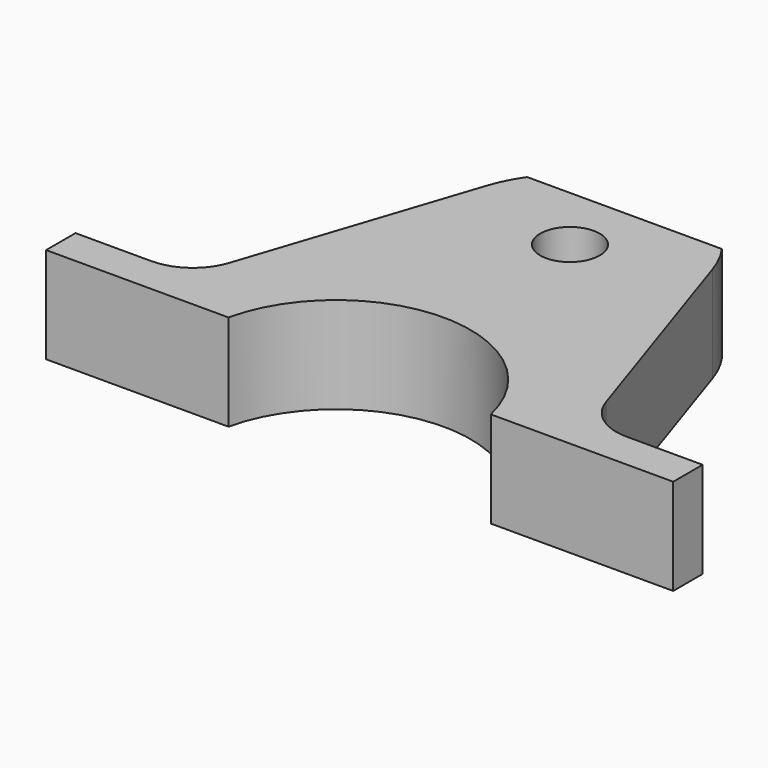
from build123d import *

# Parameters (mm, degrees)
F0_R      = 11.6
F1_DEPTH  = 25.4
F2_R      = 11.6
F2_R_2    = 5.75
F3_DEPTH  = 16
F4_R      = 2.6054950693
F5_DEPTH  = 25
F6_DEPTH  = 13
F7_DEPTH  = 13
F8_DEPTH  = 25
F10_START = -13.2
F9_W      = 101.4740765095
F9_H      = 163.1420962512
F10_DEPTH = 15.6
F11_DEPTH = 19.8


with BuildPart() as f1:
    # F0 (on Top) → F1 (new body)
    with BuildSketch(Plane.XY):
        with BuildLine():
            Line((36.4474654198, -36.875538528), (21.8328172584, 7.2338157676))
            ThreePointArc((21.8328172584, 7.2338157676), (0, 23), (-21.8328172584, 7.2338157676))
            Line((-21.8328172584, 7.2338157676), (-36.4474654198, -36.875538528))
            ThreePointArc((-36.4474654198, -36.875538528), (-40.0855678291, -41.8375392315), (-45.9399946626, -43.7304012377))
            Line((-45.9399946626, -43.7304012377), (-60.6462528196, -43.7304012377))
            Line((-60.6462528196, -43.7304012377), (-60.6462528196, -50.8411786739))
            Line((-60.6462528196, -50.8411786739), (-25.3686927199, -50.8411786739))
            ThreePointArc((-25.3686927199, -50.8411786739), (0, -30.5358630094), (25.3686927199, -50.8411786739))
            Line((25.3686927199, -50.8411786739), (60.6462528196, -50.8411786739))
            Line((60.6462528196, -50.8411786739), (60.6462528196, -43.7304012377))
            Line((60.6462528196, -43.7304012377), (45.9399946626, -43.7304012377))
            ThreePointArc((45.9399946626, -43.7304012377), (40.0855678291, -41.8375392315), (36.4474654198, -36.875538528))
        make_face()
        Circle(F0_R, mode=Mode.SUBTRACT)
    extrude(amount=F1_DEPTH)

    # F2 (on face) → F3 (join)
    with BuildSketch(Plane.XY.offset(25.4)):
        Circle(F2_R)
        Circle(F2_R_2, mode=Mode.SUBTRACT)
    extrude(amount=-F3_DEPTH)

    # F4 (on face) → F5 (cut)
    with BuildSketch(Plane(origin=(0, -43.7304012377, 0), x_dir=(-1, 0, 0), z_dir=(0, 1, 0))):
        with Locations((-53.2931237411, 12.7)):
            Circle(F4_R)
        with Locations((53.2931237411, 12.7)):
            Circle(F4_R)
    extrude(amount=-F5_DEPTH, mode=Mode.SUBTRACT)

    # F2 (on face) → F6 (join)
    with BuildSketch(Plane.XY.offset(25.4)):
        with BuildLine():
            Line((-60.6462528196, -50.8411786739), (-25.3686927199, -50.8411786739))
            ThreePointArc((-25.3686927199, -50.8411786739), (0, -30.5358630094), (25.3686927199, -50.8411786739))
            Line((25.3686927199, -50.8411786739), (60.6462528196, -50.8411786739))
            Line((60.6462528196, -50.8411786739), (60.6462528196, -43.7304012377))
            Line((60.6462528196, -43.7304012377), (45.9399946626, -43.7304012377))
            ThreePointArc((45.9399946626, -43.7304012377), (40.0855678291, -41.8375392315), (36.4474654198, -36.875538528))
            Line((36.4474654198, -36.875538528), (21.8328172584, 7.2338157676))
            ThreePointArc((21.8328172584, 7.2338157676), (0, 23), (-21.8328172584, 7.2338157676))
            Line((-21.8328172584, 7.2338157676), (-36.4474654198, -36.875538528))
            ThreePointArc((-36.4474654198, -36.875538528), (-40.0855678291, -41.8375392315), (-45.9399946626, -43.7304012377))
            Line((-45.9399946626, -43.7304012377), (-60.6462528196, -43.7304012377))
            Line((-60.6462528196, -43.7304012377), (-60.6462528196, -50.8411786739))
        make_face()
        Circle(F2_R, mode=Mode.SUBTRACT)
    extrude(amount=F6_DEPTH)

    # F2 (on face) → F7 (join, through all)
    with BuildSketch(Plane.XY.offset(25.4)):
        Circle(F2_R)
        Circle(F2_R_2, mode=Mode.SUBTRACT)
    extrude(amount=F7_DEPTH)

    # F0 (on Top) → F8 (join)
    with BuildSketch(Plane.XY):
        with BuildLine():
            Line((36.4474654198, -36.875538528), (21.8328172584, 7.2338157676))
            ThreePointArc((21.8328172584, 7.2338157676), (0, 23), (-21.8328172584, 7.2338157676))
            Line((-21.8328172584, 7.2338157676), (-36.4474654198, -36.875538528))
            ThreePointArc((-36.4474654198, -36.875538528), (-40.0855678291, -41.8375392315), (-45.9399946626, -43.7304012377))
            Line((-45.9399946626, -43.7304012377), (-60.6462528196, -43.7304012377))
            Line((-60.6462528196, -43.7304012377), (-60.6462528196, -50.8411786739))
            Line((-60.6462528196, -50.8411786739), (-25.3686927199, -50.8411786739))
            ThreePointArc((-25.3686927199, -50.8411786739), (0, -30.5358630094), (25.3686927199, -50.8411786739))
            Line((25.3686927199, -50.8411786739), (60.6462528196, -50.8411786739))
            Line((60.6462528196, -50.8411786739), (60.6462528196, -43.7304012377))
            Line((60.6462528196, -43.7304012377), (45.9399946626, -43.7304012377))
            ThreePointArc((45.9399946626, -43.7304012377), (40.0855678291, -41.8375392315), (36.4474654198, -36.875538528))
        make_face()
        Circle(F0_R, mode=Mode.SUBTRACT)
    extrude(amount=F8_DEPTH)

    # F9 (on Front) → F10 (cut)
    with BuildSketch(Plane.XZ.offset(F10_START)):
        with Locations((-7.8580155969, 21.2894622236)):
            Rectangle(F9_W, F9_H)
    extrude(amount=-F10_DEPTH, mode=Mode.SUBTRACT)

    # F11 (cut): a face of the model
    f11_faces = [f1.faces().sort_by_distance(p)[0] for p in [
        (0, -21.0137412442, 38.4),
    ]]
    extrude(f11_faces, amount=-F11_DEPTH, mode=Mode.SUBTRACT)


solid = f1.part
